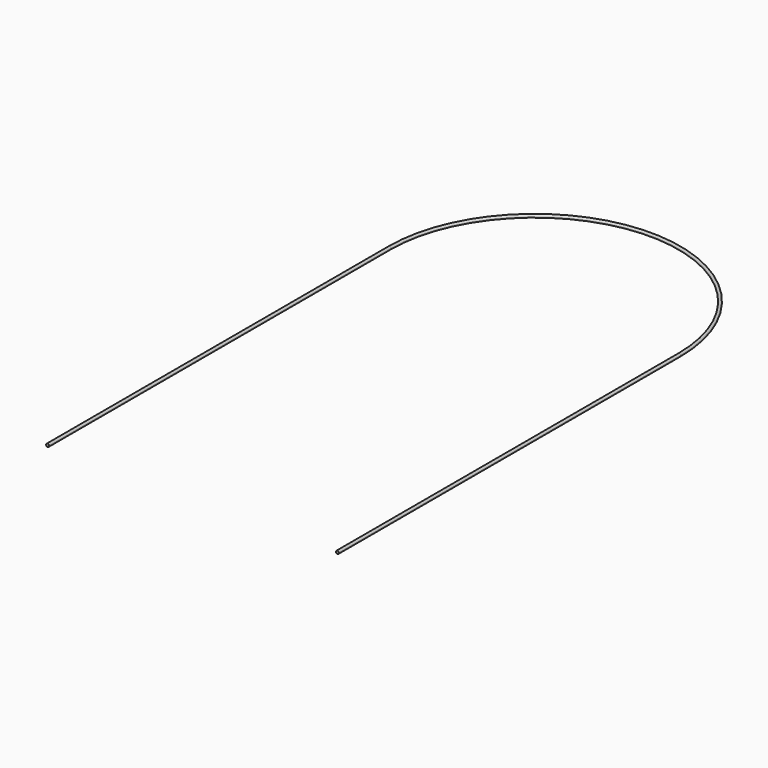
from build123d import *

# Parameters (mm, degrees)
SKETCH001_R = 0.12033


with BuildPart() as part:
    # AdditivePipe: sweep along a path in Sketch
    with BuildLine(Plane.XY) as additivepipe_path:
        Line((33.525893, 0), (33.525893, 34.400362))
        ThreePointArc((33.525893, 34.400362), (21.849594, 46.076661), (10.173295, 34.400362))
        Line((10.173295, 34.400362), (10.173295, 0))
    # Sketch001 (on XZ_Plane of Origin) → AdditivePipe (sweep)
    with BuildSketch(Plane.XZ):
        with Locations((10.192534, 0)):
            Circle(SKETCH001_R)
    sweep(path=additivepipe_path.line)


solid = part.part
